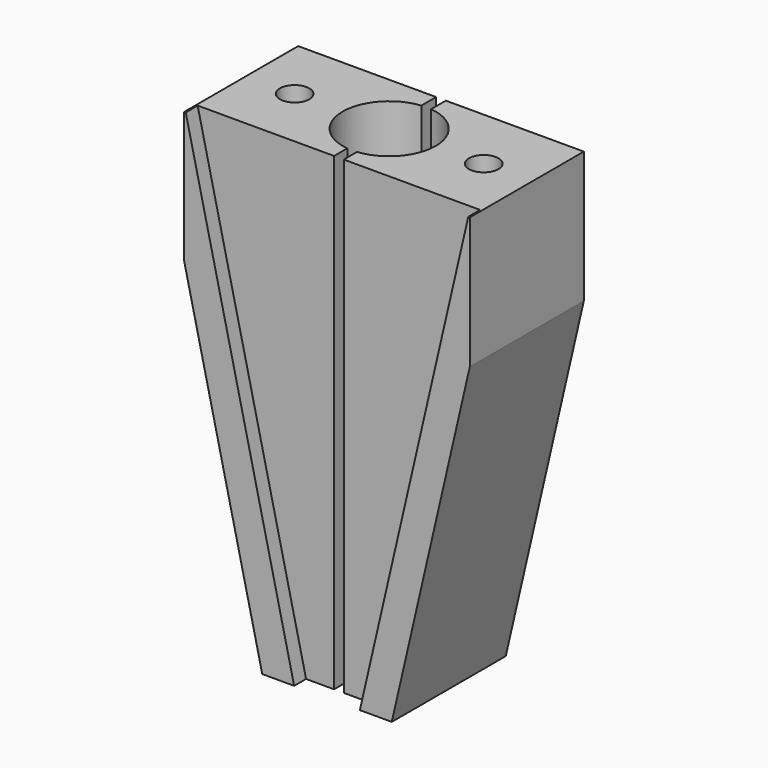
from build123d import *

# Parameters (mm, degrees)
F1_DEPTH = 27.94
F3_DEPTH = 2.921
F5_D     = 5.7912
F5_DEPTH = 22.86
F5_TIP   = 1.7398520085
F7_D     = 18.25752
F8_W     = 1.905
F8_H     = 92.075
F9_DEPTH = 25.02


with BuildPart() as f1:
    # F0 (on Front) → F1 (new body)
    with BuildSketch(Plane.XZ):
        Polygon((28.0035, 0), (-28.0035, 0), (-28.0035, -25.7882589579), (-12.7, -92.075), (12.7, -92.075), (28.0035, -25.7882589579), align=None)
    extrude(amount=-F1_DEPTH)

    # F2 (on face) → F3 (cut)
    with BuildSketch(Plane.XZ):
        Polygon((-27.7008388568, 0), (-6.4436501589, -92.075), (6.4436501589, -92.075), (27.7008388568, 0), align=None)
    extrude(amount=-F3_DEPTH, mode=Mode.SUBTRACT)

    # F5
    with Locations(Plane.XY):
        with Locations((-18.542, 15.24), (18.542, 15.24)):
            Hole(F5_D / 2, depth=F5_DEPTH)
            with Locations((0, 0, -(F5_DEPTH + F5_TIP / 2))):  # 118° drill point
                Cone(0, F5_D / 2, F5_TIP, mode=Mode.SUBTRACT)

    # F7 (through all)
    with Locations(Plane.XY):
        with Locations((0, 15.24)):
            Hole(F7_D / 2)

    # F8 (on face) → F9 (cut, through all)
    with BuildSketch(Plane.XZ.offset(-2.921)):
        with Locations((0, -46.0375)):
            Rectangle(F8_W, F8_H)
    extrude(amount=-F9_DEPTH, mode=Mode.SUBTRACT)


solid = f1.part
